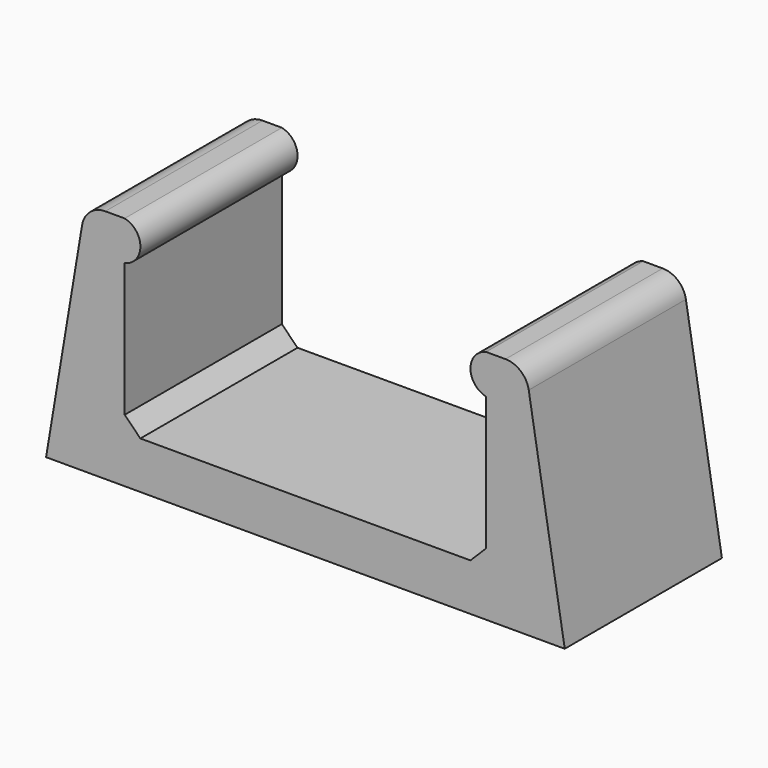
from build123d import *

# Parameters (mm, degrees)
F1_DEPTH = 25
F2_SIZE  = 2
F3_R     = 3


with BuildPart() as f1:
    # F0 (on Front) → F1 (new body)
    with BuildSketch(Plane.XZ):
        Polygon((-5, 30), (-10, 0), (56, 0), (51, 30), (46, 30), (46, 25), (46, 6), (0, 6), (0, 25), (0, 30), align=None)
        with BuildLine():
            ThreePointArc((0, 25), (2, 27.5), (0, 30))
            Line((0, 30), (0, 25))
        make_face()
        with BuildLine():
            Line((46, 25), (46, 30))
            ThreePointArc((46, 30), (44, 27.5), (46, 25))
        make_face()
    extrude(amount=F1_DEPTH)

    # F2
    f2_edges = [f1.edges().sort_by_distance(p)[0] for p in [
        (46, -12.5, 6),
        (0, -12.5, 6),
    ]]
    chamfer(f2_edges, length=F2_SIZE)

    # F3
    f3_edges = [f1.edges().sort_by_distance(p)[0] for p in [
        (51, -12.5, 30),
        (-5, -12.5, 30),
    ]]
    fillet(f3_edges, radius=F3_R)


solid = f1.part
